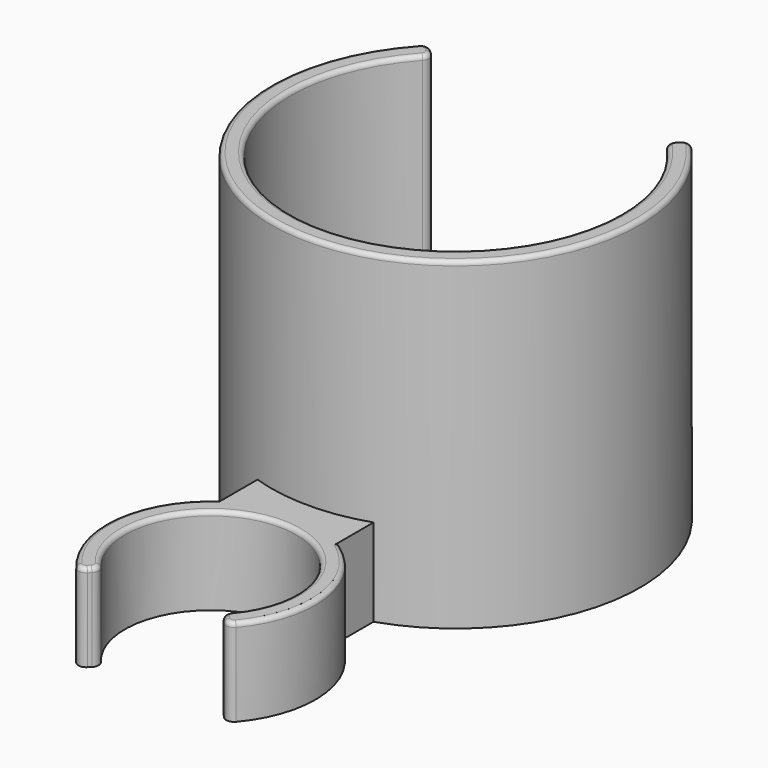
from build123d import *

# Parameters (mm, degrees)
PAD_DEPTH    = 10
PAD001_DEPTH = 10
PAD002_DEPTH = 37
PAD003_DEPTH = 2
FILLET_R     = 0.5


with BuildPart() as part:
    # Sketch → Pad (new body)
    with BuildSketch(Plane.XY):
        with BuildLine():
            ThreePointArc((7.487957, -6.322222), (0, 9.8), (-7.487957, -6.322222))
            ThreePointArc((-7.539231, -7.539231), (-7.276425, -6.940719), (-7.487957, -6.322222))
            Line((-7.823043, -7.823043), (-7.539231, -7.539231))
            ThreePointArc((-9.145339, -7.769348), (-8.495956, -8.085906), (-7.823043, -7.823043))
            ThreePointArc((9.145339, -7.769348), (0, 12), (-9.145339, -7.769348))
            ThreePointArc((7.823043, -7.823043), (8.495956, -8.085906), (9.145339, -7.769348))
            Line((7.539231, -7.539231), (7.823043, -7.823043))
            ThreePointArc((7.487957, -6.322222), (7.276425, -6.940719), (7.539231, -7.539231))
        make_face()
    extrude(amount=PAD_DEPTH)

    # Sketch001 → Pad001 (join)
    with BuildSketch(Plane.XY):
        with BuildLine():
            Line((-6.63325, 15), (6.63325, 15))
            Line((6.63325, 15), (6.63325, 10))
            ThreePointArc((6.63325, 10), (0, 12), (-6.63325, 10))
            Line((-6.63325, 10), (-6.63325, 15))
        make_face()
    extrude(amount=PAD001_DEPTH)

    # Sketch002 → Pad002 (join)
    with BuildSketch(Plane.XY):
        with BuildLine():
            ThreePointArc((-13.957974, 47.773263), (0, 16.130227), (13.957974, 47.773263))
            ThreePointArc((13.986243, 49.01647), (13.722872, 48.400534), (13.957974, 47.773263))
            Line((13.986243, 49.01647), (14.269373, 49.2996))
            ThreePointArc((15.569887, 49.270614), (14.925823, 49.56298), (14.269373, 49.2996))
            ThreePointArc((-15.569887, 49.270614), (0, 13.930227), (15.569887, 49.270614))
            ThreePointArc((-14.269373, 49.2996), (-14.925823, 49.56298), (-15.569887, 49.270614))
            Line((-14.269373, 49.2996), (-13.986243, 49.01647))
            ThreePointArc((-13.957974, 47.773263), (-13.722872, 48.400534), (-13.986243, 49.01647))
        make_face()
    extrude(amount=PAD002_DEPTH)

    # Sketch003 → Pad003 (join)
    with BuildSketch(Plane.XY):
        with BuildLine():
            Line((6.63325, 15), (6.63325, 35))
            ThreePointArc((6.63325, 35), (5.461677, 37.828427), (2.63325, 39))
            Line((2.63325, 39), (-2.63325, 39))
            ThreePointArc((-2.63325, 39), (-5.461677, 37.828427), (-6.63325, 35))
            Line((-6.63325, 35), (-6.63325, 15))
            Line((-6.63325, 15), (6.63325, 15))
        make_face()
    extrude(amount=PAD003_DEPTH)

    # Fillet
    fillet_edges = [part.edges().sort_by_distance(p)[0] for p in [
        (0, 9.8, 10),
        (11.881852, 1.679762, 10),
        (-11.881852, 1.679762, 10),
        (0, 13.930227, 37),
        (0, 16.130227, 37),
    ]]
    fillet(fillet_edges, radius=FILLET_R)


solid = part.part
